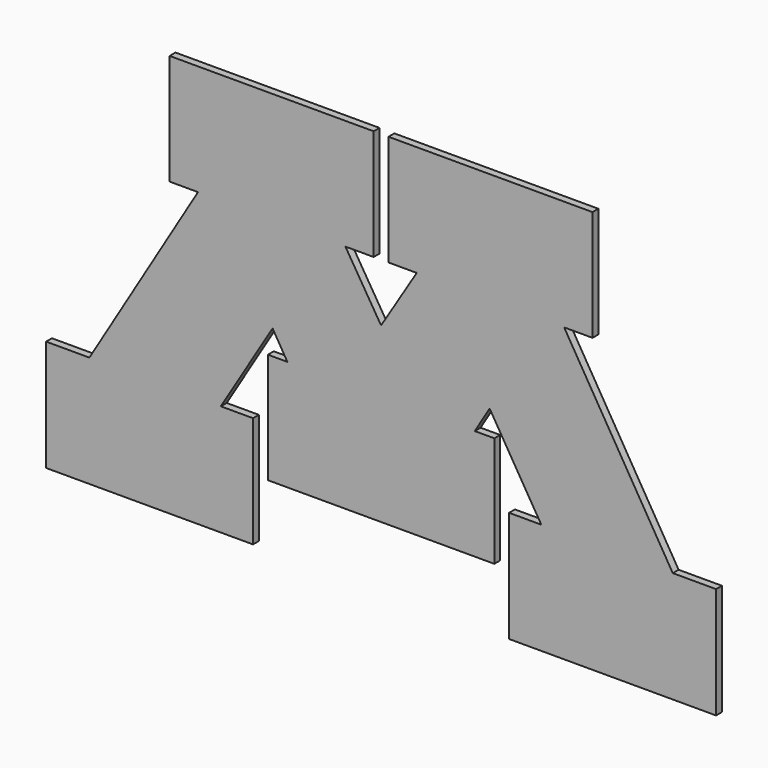
from build123d import *

# Parameters (mm, degrees)
F1_DEPTH = 9.525


with BuildPart() as f1:
    # F0 (on Front) → F1 (new body)
    with BuildSketch(Plane.XZ):
        Polygon((46.425866, 118.218941), (0, 42.89867), (-46.425841, 118.218941), (-9.642704, 118.218941), (-9.642704, 262.373212), (-275.353094, 262.373212), (-275.353094, 118.218941), (-238.419894, 118.218941), (-379.852555, -117.502153), (-436.247438, -117.502153), (-436.247438, -262.373186), (-166.750771, -262.373186), (-166.750771, -117.675508), (-208.63687, -117.675508), (-141.304645, -6.354039), (-122.033462, -38.525171), (-147.4629, -38.525171), (-147.4629, -182.446219), (147.4629, -182.446219), (147.4629, -38.525171), (122.033487, -38.525171), (141.30467, -6.354039), (208.636895, -117.675508), (166.750797, -117.675508), (166.750797, -262.373186), (436.247438, -262.373186), (436.247438, -117.502153), (379.852555, -117.502153), (238.419919, 118.218941), (275.35312, 118.218941), (275.35312, 262.373212), (9.642729, 262.373212), (9.642729, 118.218941), align=None)
    extrude(amount=F1_DEPTH)


solid = f1.part
